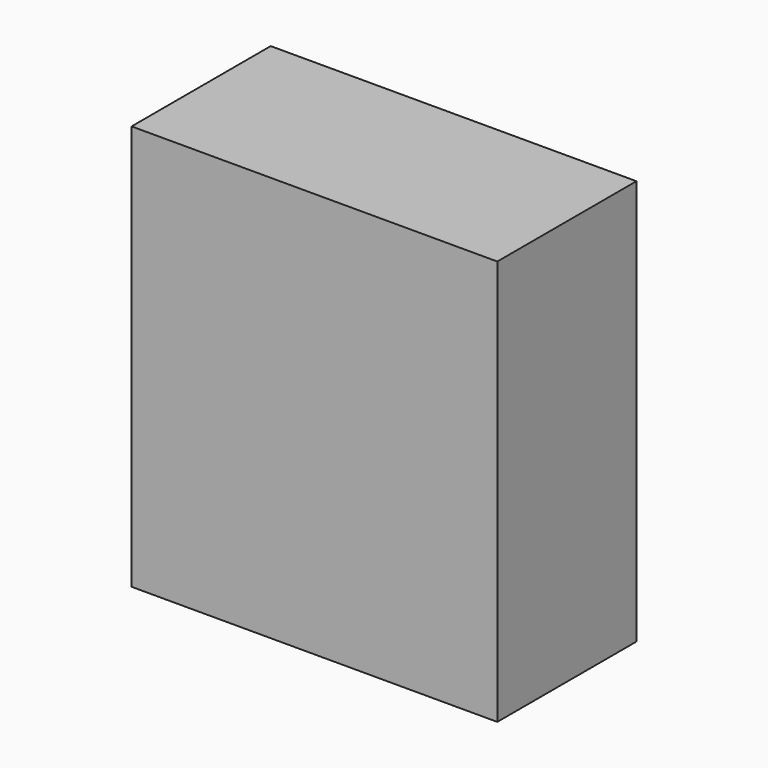
from build123d import *

# Parameters (mm, degrees)
F0_W     = 72.648414
F0_H     = 80.510706
F1_DEPTH = 34.544
F2_R     = 23.378618
F3_DEPTH = 25.4


with BuildPart() as f1:
    # F0 (on Front) → F1 (new body)
    with BuildSketch(Plane.XZ):
        Rectangle(F0_W, F0_H)
    extrude(amount=F1_DEPTH)

    # F2 (on Front) → F3 (join)
    with BuildSketch(Plane.XZ):
        Circle(F2_R)
    extrude(amount=F3_DEPTH)


solid = f1.part
